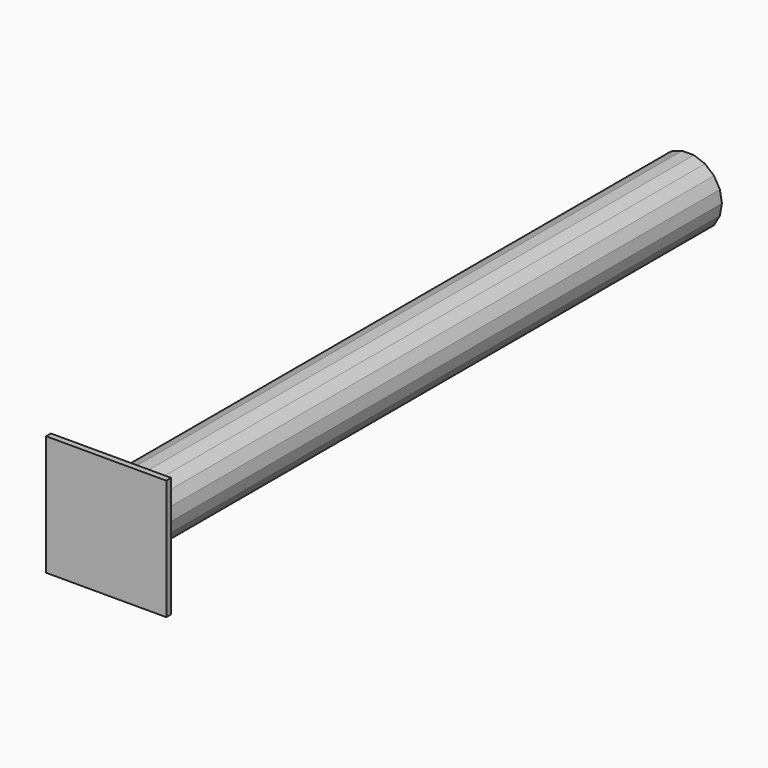
from build123d import *

# Parameters (mm, degrees)
F0_W     = 127
F0_H     = 127
F1_DEPTH = 6.35
F4_DEPTH = 762


with BuildPart() as f1:
    # F0 (on Front) → F1 (new body)
    with BuildSketch(Plane.XZ):
        with Locations((5.181599, -1.836989)):
            Rectangle(F0_W, F0_H)
    extrude(amount=F1_DEPTH)

    # F3 (on face) → F4 (join)
    with BuildSketch(Plane(origin=(0, 0, 0), x_dir=(-1, 0, 0), z_dir=(0, 1, 0))):
        Polygon((-11.394211, -37.070461), (1.031012, -37.070461), (12.706903, -32.820784), (22.225176, -24.834005), (28.437787, -14.073446), (30.595405, -1.836989), (28.437787, 10.399467), (22.225176, 21.160026), (12.706903, 29.146805), (1.031012, 33.396482), (-11.394211, 33.396482), (-23.070102, 29.146805), (-32.588375, 21.160026), (-38.800986, 10.399467), (-40.958604, -1.836989), (-38.800986, -14.073446), (-32.588375, -24.834005), (-23.070102, -32.820784), align=None)
    extrude(amount=F4_DEPTH)


solid = f1.part
